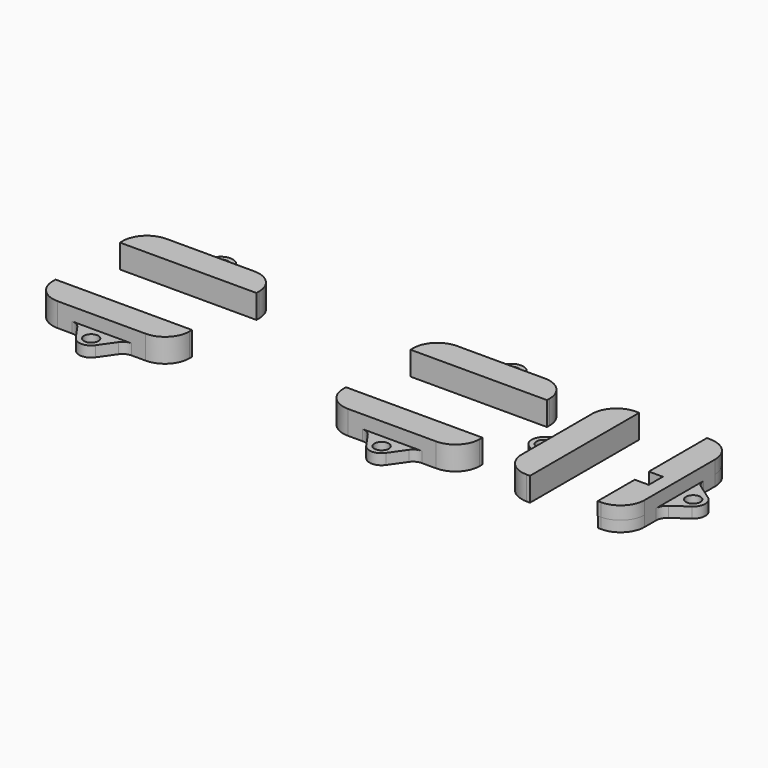
from build123d import *

# Parameters (mm, degrees)
SKETCH011_R                = 1.35
EXTRUDE016_DEPTH           = 2
EXTRUDE017_DEPTH           = 2.45
FUSION048_PLACEMENT_ANGLE  = 180
CLONE001_PLACEMENT_ANGLE   = 180
BODY001_PLACEMENT_ANGLE    = 90
CLONE002_PLACEMENT_ANGLE   = 180
BODY002_PLACEMENT_ANGLE    = 270
CLONE003_PLACEMENT_ANGLE   = 180
BODY003_PLACEMENT_ANGLE    = 90
CLONE004_PLACEMENT_ANGLE   = 180
BODY004_PLACEMENT_ANGLE    = 270
SKETCH013_R                = 1.35
EXTRUDE018_DEPTH           = 2
EXTRUDE018_PLACEMENT_ANGLE = 180
BOX019_W                   = 2.7
BOX019_H                   = 3.3
BOX019_DEPTH               = 2.1
EXTRUDE019_DEPTH           = 2.45
EXTRUDE019_PLACEMENT_ANGLE = 180
FUSION067_PLACEMENT_ANGLE  = 180


with BuildPart() as extrude016:
    # Sketch011 (on Tube) → Extrude016 (new body)
    with BuildSketch(Plane(origin=(61.43, -31.52, -5.7), x_dir=(1, 0, 0), z_dir=(0, 0, 1))):
        with BuildLine():
            ThreePointArc((-7.02, -12.8), (-3.809735, -11.470265), (-2.48, -8.26))
            Line((-2.48, -8.26), (-2.48, -5.578381))
            ThreePointArc((-1.585286, -3.858705), (-2.242941, -4.609129), (-2.48, -5.578381))
            Line((-1.585286, -3.858705), (1.291378, -1.84251))
            ThreePointArc((1.291378, -1.84251), (2.25, 0.001014), (1.289716, 1.843674))
            Line((1.289716, 1.843674), (-1.588764, 3.857274))
            ThreePointArc((-2.48, 5.568381), (-2.243837, 4.603732), (-1.588764, 3.857274))
            Line((-2.48, 5.568381), (-2.48, 8.25))
            ThreePointArc((-2.48, 8.25), (-3.809735, 11.460265), (-7.02, 12.79))
            Line((-7.02, 12.79), (-7.655, 12.79))
            Line((-7.655, -12.8), (-7.655, 12.79))
            Line((-7.02, -12.8), (-7.655, -12.8))
        make_face()
        Circle(SKETCH011_R, mode=Mode.SUBTRACT)
    extrude(amount=-EXTRUDE016_DEPTH)


with BuildPart() as obj1:
    # Sketch012 (on Sketch) → Extrude017 (new body)
    with BuildSketch(Plane(origin=(61.43, -31.52, -5.7), x_dir=(1, 0, 0), z_dir=(0, 0, 1))):
        with BuildLine():
            ThreePointArc((-2.48, 8.250001), (-3.809735, 11.460265), (-7.02, 12.79))
            Line((-7.02, 12.79), (-7.655, 12.79))
            Line((-7.655, 12.79), (-7.655, -12.8))
            Line((-7.655, -12.8), (-7.02, -12.8))
            ThreePointArc((-7.02, -12.8), (-3.809735, -11.470265), (-2.48, -8.260001))
            Line((-2.48, -8.260001), (-2.48, 8.250001))
        make_face()
    extrude(amount=EXTRUDE017_DEPTH)

    # Fusion048: union Extrude016
    add(extrude016.part)


with BuildPart() as obj1_1:
    # Fusion048 placement: moved
    add(obj1.part.moved(Location((94.8, -63, 0))).rotate(Axis((94.8, -63, 0), (0, 0, 1)), FUSION048_PLACEMENT_ANGLE))


with BuildPart() as obj2:
    # Body001 base: copy of obj1
    add(obj1_1.part)


with BuildPart() as obj2_1:
    # Clone001 placement: moved
    add(obj2.part.moved(Location((94.8, -63, 0))).rotate(Axis((94.8, -63, 0), (0, 0, -1)), CLONE001_PLACEMENT_ANGLE))


with BuildPart() as obj2_2:
    # Body001 placement: moved
    add(obj2_1.part.moved(Location((-16.35, -77.75, 0))).rotate(Axis((-16.35, -77.75, 0), (0, 0, 1)), BODY001_PLACEMENT_ANGLE))


with BuildPart() as obj3:
    # Body002 base: copy of obj1
    add(obj1_1.part)


with BuildPart() as obj3_1:
    # Clone002 placement: moved
    add(obj3.part.moved(Location((94.8, -63, 0))).rotate(Axis((94.8, -63, 0), (0, 0, -1)), CLONE002_PLACEMENT_ANGLE))


with BuildPart() as obj3_2:
    # Body002 placement: moved
    add(obj3_1.part.moved(Location((46.75, 14.6, 0))).rotate(Axis((46.75, 14.6, 0), (0, 0, 1)), BODY002_PLACEMENT_ANGLE))


with BuildPart() as obj4:
    # Body003 base: copy of obj1
    add(obj1_1.part)


with BuildPart() as obj4_1:
    # Clone003 placement: moved
    add(obj4.part.moved(Location((94.8, -63, 0))).rotate(Axis((94.8, -63, 0), (0, 0, -1)), CLONE003_PLACEMENT_ANGLE))


with BuildPart() as obj4_2:
    # Body003 placement: moved
    add(obj4_1.part.moved(Location((-70.8, -77.8, 0))).rotate(Axis((-70.8, -77.8, 0), (0, 0, 1)), BODY003_PLACEMENT_ANGLE))


with BuildPart() as obj5:
    # Body004 base: copy of obj1
    add(obj1_1.part)


with BuildPart() as obj5_1:
    # Clone004 placement: moved
    add(obj5.part.moved(Location((94.8, -63, 0))).rotate(Axis((94.8, -63, 0), (0, 0, -1)), CLONE004_PLACEMENT_ANGLE))


with BuildPart() as obj5_2:
    # Body004 placement: moved
    add(obj5_1.part.moved(Location((-7.8, 14.7, 0))).rotate(Axis((-7.8, 14.7, 0), (0, 0, 1)), BODY004_PLACEMENT_ANGLE))


with BuildPart() as extrude018:
    # Sketch013 (on Tube) → Extrude018 (new body)
    with BuildSketch(Plane(origin=(61.43, -31.52, -5.7), x_dir=(1, 0, 0), z_dir=(0, 0, 1))):
        with BuildLine():
            ThreePointArc((-7.02, -12.8), (-3.809735, -11.470265), (-2.48, -8.26))
            Line((-2.48, -8.26), (-2.48, -5.578381))
            ThreePointArc((-1.585286, -3.858705), (-2.242941, -4.609129), (-2.48, -5.578381))
            Line((-1.585286, -3.858705), (1.291378, -1.84251))
            ThreePointArc((1.291378, -1.84251), (2.25, 0.001014), (1.289716, 1.843674))
            Line((1.289716, 1.843674), (-1.588764, 3.857274))
            ThreePointArc((-2.48, 5.568381), (-2.243837, 4.603732), (-1.588764, 3.857274))
            Line((-2.48, 5.568381), (-2.48, 8.25))
            ThreePointArc((-2.48, 8.25), (-3.809735, 11.460265), (-7.02, 12.79))
            Line((-7.02, 12.79), (-7.655, 12.79))
            Line((-7.655, -12.8), (-7.655, 12.79))
            Line((-7.02, -12.8), (-7.655, -12.8))
        make_face()
        Circle(SKETCH013_R, mode=Mode.SUBTRACT)
    extrude(amount=-EXTRUDE018_DEPTH)


with BuildPart() as extrude018_1:
    # Extrude018 placement: moved
    add(extrude018.part.moved(Location((98.9, -63, 0))).rotate(Axis((98.9, -63, 0), (0, 0, 1)), EXTRUDE018_PLACEMENT_ANGLE))


with BuildPart() as key_socket_pocket:
    # Box019 → Box019 (new body)
    with BuildSketch(Plane(origin=(42.5, -30.65, -5.3), x_dir=(1, 0, 0), z_dir=(0, 0, 1))):
        with Locations((1.35, 1.65)):
            Rectangle(BOX019_W, BOX019_H)
    extrude(amount=BOX019_DEPTH)


with BuildPart() as obj6:
    # Sketch014 (on Sketch) → Extrude019 (new body)
    with BuildSketch(Plane(origin=(61.43, -31.52, -5.7), x_dir=(1, 0, 0), z_dir=(0, 0, 1))):
        with BuildLine():
            ThreePointArc((-2.48, 8.250001), (-3.809735, 11.460265), (-7.02, 12.79))
            Line((-7.02, 12.79), (-7.655, 12.79))
            Line((-7.655, 12.79), (-7.655, -12.8))
            Line((-7.655, -12.8), (-7.02, -12.8))
            ThreePointArc((-7.02, -12.8), (-3.809735, -11.470265), (-2.48, -8.260001))
            Line((-2.48, -8.260001), (-2.48, 8.250001))
        make_face()
    extrude(amount=EXTRUDE019_DEPTH)


with BuildPart() as obj6_1:
    # Extrude019 placement: moved
    add(obj6.part.moved(Location((98.9, -62.99, 0))).rotate(Axis((98.9, -62.99, 0), (0, 0, 1)), EXTRUDE019_PLACEMENT_ANGLE))

    # Cut013: cut key_socket_pocket
    add(key_socket_pocket.part, mode=Mode.SUBTRACT)

    # Fusion067: union Extrude018
    add(extrude018_1.part)


with BuildPart() as obj6_2:
    # Fusion067 placement: moved
    add(obj6_1.part.moved(Location((98.9, -63, 0))).rotate(Axis((98.9, -63, 0), (0, 0, 1)), FUSION067_PLACEMENT_ANGLE))


with BuildPart() as obj7:
    # Fusion054 base: copy of obj1
    add(obj1_1.part)

    # Fusion054: union obj2, obj3, obj4, obj5, obj6
    add(obj2_2.part)
    add(obj3_2.part)
    add(obj4_2.part)
    add(obj5_2.part)
    add(obj6_2.part)


solid = obj7.part
